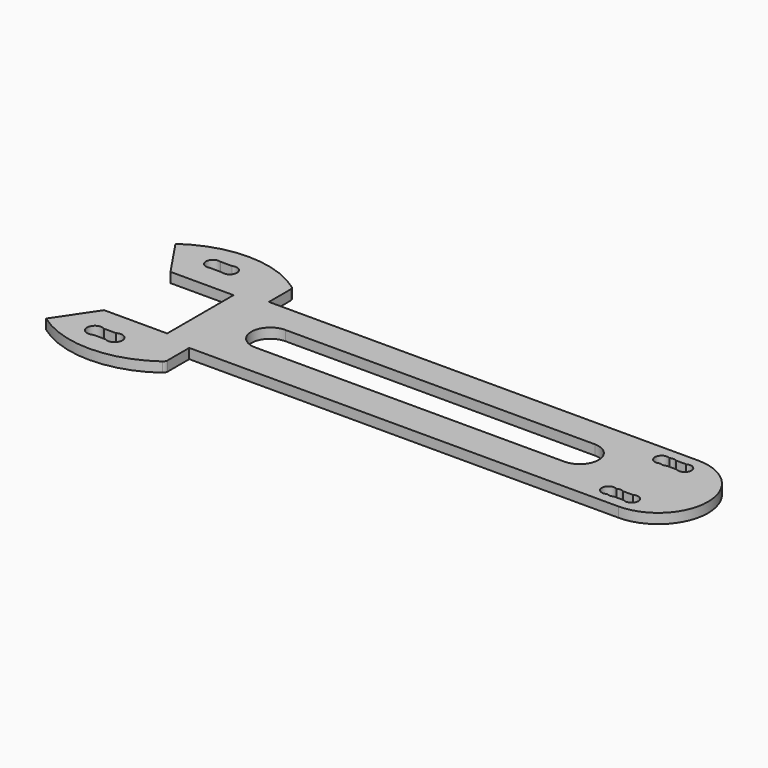
from build123d import *

# Parameters (mm, degrees)
F1_DEPTH = 3
F2_R     = 1.5


with BuildPart() as f1:
    # F0 (on Top) → F1 (new body)
    with BuildSketch(Plane.XY):
        with BuildLine():
            Line((1.3402, -5.768893), (-8.1598, -5.768893))
            Line((-8.1598, -5.768893), (-16.1598, -17.635879))
            ThreePointArc((-16.1598, -17.635879), (1.745846, -23.26615), (19.492698, -17.153758))
            Line((19.492698, -17.153758), (19.492698, -8.270392))
            Line((19.492698, -8.270392), (148.840895, -8.267395))
            ThreePointArc((148.840895, -8.267395), (163.840513, 6.700324), (148.905457, 21.732465))
            Line((148.905457, 21.732465), (148.775638, 21.732465))
            Line((148.775638, 21.732465), (19.492698, 21.732465))
            Line((19.492698, 21.732465), (19.492698, 30.615973))
            ThreePointArc((19.492698, 30.615973), (1.745846, 36.728365), (-16.1598, 31.098093))
            Line((-16.1598, 31.098093), (-8.1598, 19.231107))
            Line((-8.1598, 19.231107), (1.3402, 19.231107))
            Line((1.3402, 19.231107), (10.8402, 19.231107))
            Line((10.8402, 19.231107), (10.8402, 15.231107))
            Line((10.8402, 15.231107), (10.8402, -1.768893))
            Line((10.8402, -1.768893), (10.8402, -5.768893))
            Line((10.8402, -5.768893), (1.3402, -5.768893))
        make_face()
        with BuildLine():
            Line((-2.245489, -13.153758), (1.3402, -13.153758))
            ThreePointArc((1.3402, -13.153758), (3.668369, -13.1398), (4.836501, -15.153758))
            ThreePointArc((4.836501, -15.153758), (3.668369, -17.167717), (1.3402, -17.153758))
            Line((1.3402, -17.153758), (-2.245489, -17.153758))
            ThreePointArc((-2.245489, -17.153758), (-5.783371, -15.153758), (-2.245489, -13.153758))
        make_face(mode=Mode.SUBTRACT)
        with BuildLine():
            ThreePointArc((147.840835, -1.535379), (150.840895, -3.267151), (147.841257, -4.999654))
            Line((147.841257, -4.999654), (144.840835, -4.999654))
            ThreePointArc((144.840835, -4.999654), (143.840895, -5.267569), (142.840956, -4.999654))
            ThreePointArc((142.840956, -4.999654), (139.840895, -3.267708), (142.840835, -1.535553))
            ThreePointArc((142.840835, -1.535553), (143.840826, -1.267569), (144.840835, -1.535483))
            Line((144.840835, -1.535483), (147.840835, -1.535379))
        make_face(mode=Mode.SUBTRACT)
        with BuildLine():
            ThreePointArc((4.3705, 28.615973), (3.393515, 26.800573), (1.3402, 26.615973))
            Line((1.3402, 26.615973), (-2.245489, 26.615973))
            ThreePointArc((-2.245489, 26.615973), (-4.97372, 28.615973), (-2.245489, 30.615973))
            Line((-2.245489, 30.615973), (1.3402, 30.615973))
            ThreePointArc((1.3402, 30.615973), (3.393515, 30.431374), (4.3705, 28.615973))
        make_face(mode=Mode.SUBTRACT)
        with BuildLine():
            ThreePointArc((31.456228, 1.610305), (25.759033, 7.3075), (31.456228, 13.004695))
            Line((31.456228, 13.004695), (124.697648, 13.004695))
            ThreePointArc((124.697648, 13.004695), (130.394843, 7.3075), (124.697648, 1.610305))
            Line((124.697648, 1.610305), (31.456228, 1.610305))
        make_face(mode=Mode.SUBTRACT)
        with BuildLine():
            ThreePointArc((147.839839, 18.464447), (150.8402, 16.733022), (147.840561, 15.000346))
            Line((147.840561, 15.000346), (144.84014, 15.000346))
            ThreePointArc((144.84014, 15.000346), (143.8402, 14.732431), (142.84026, 15.000346))
            ThreePointArc((142.84026, 15.000346), (139.8402, 16.732292), (142.84014, 18.464447))
            ThreePointArc((142.84014, 18.464447), (143.8402, 18.732431), (144.84026, 18.464447))
            Line((144.84026, 18.464447), (147.839839, 18.464447))
        make_face(mode=Mode.SUBTRACT)
    extrude(amount=F1_DEPTH)

    # F2
    f2_edges = [f1.edges().sort_by_distance(p)[0] for p in [
        (19.492698, -17.153758, 1.5),
        (19.492698, 30.615973, 1.5),
    ]]
    fillet(f2_edges, radius=F2_R)


solid = f1.part
